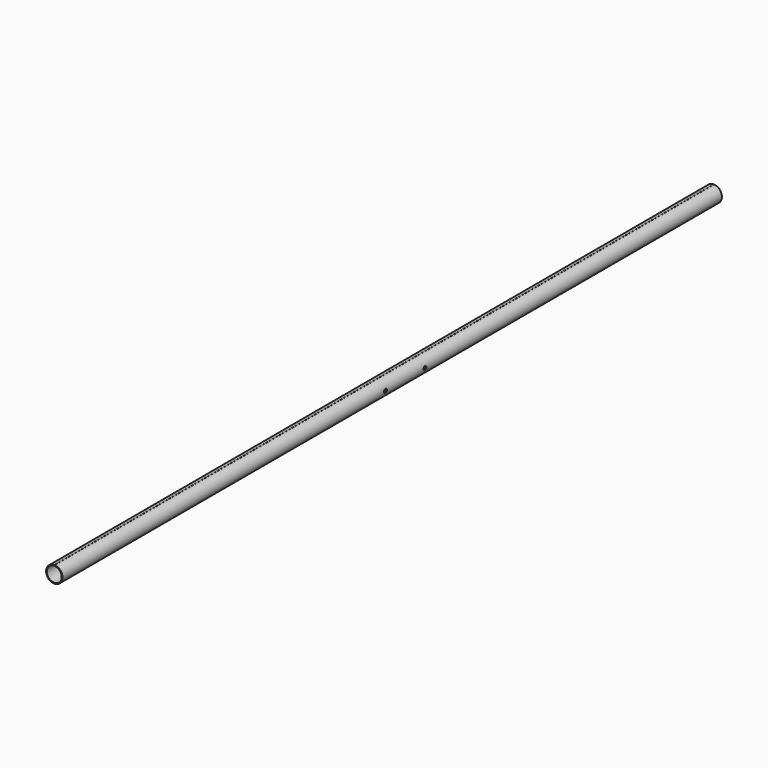
from build123d import *

# Parameters (mm, degrees)
F0_R     = 9
F1_DEPTH = 1000
F3_D     = 4.4
F3_DEPTH = 10.001


with BuildPart() as f1:
    # F0 (on Front) → F1 (new body)
    with BuildSketch(Plane.XZ):
        with BuildLine():
            Line((-0.3, 10.1), (-0.3, 9.995498987))
            ThreePointArc((-0.3, 9.995498987), (-10, 0), (-0.3, -9.995498987))
            Line((-0.3, -9.995498987), (-0.3, -10.1))
            Line((-0.3, -10.1), (0.3, -10.1))
            Line((0.3, -10.1), (0.3, -9.995498987))
            ThreePointArc((0.3, -9.995498987), (10, 0), (0.3, 9.995498987))
            Line((0.3, 9.995498987), (0.3, 10.1))
            Line((0.3, 10.1), (-0.3, 10.1))
        make_face()
        Circle(F0_R, mode=Mode.SUBTRACT)
    extrude(amount=F1_DEPTH)

    # F3 (through all, one way)
    with BuildSketch(Plane(origin=(0, 0, 0), x_dir=(0, 1, 0), z_dir=(-1, 0, 0))):
        with Locations((-510.20492077, 0), (-450.20492077, 0)):
            Circle(F3_D / 2)
    extrude(amount=-F3_DEPTH, mode=Mode.SUBTRACT)


solid = f1.part
